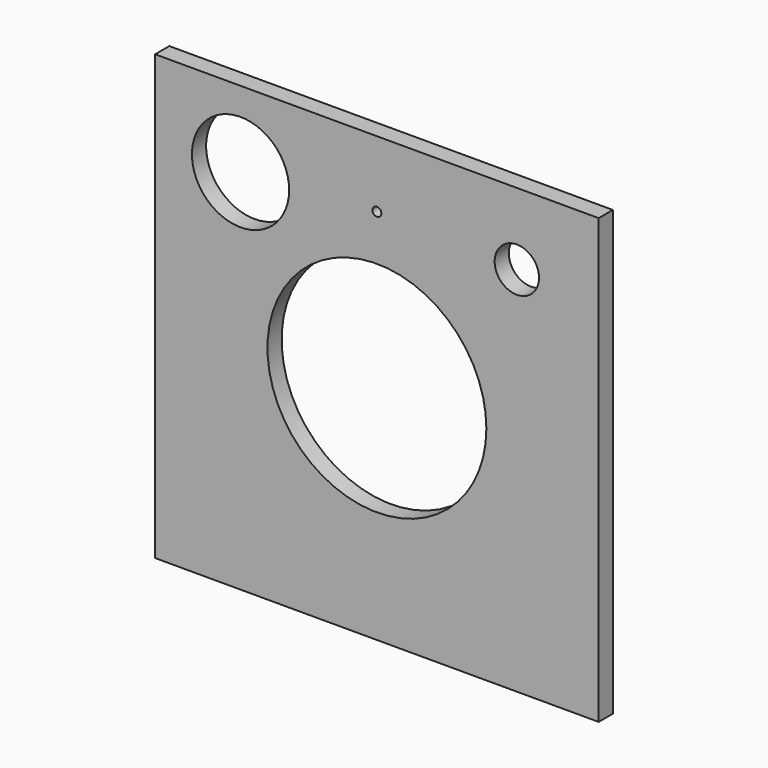
from build123d import *

# Parameters (mm, degrees)
F0_W     = 100
F0_H     = 100
F1_DEPTH = 4
F2_R     = 24.680496
F3_DEPTH = 25
F4_R     = 5
F5_DEPTH = 25
F6_R     = 10.957285
F7_DEPTH = 25
F8_R     = 1
F9_DEPTH = 4.001


with BuildPart() as f1:
    # F0 (on Front) → F1 (new body)
    with BuildSketch(Plane.XZ):
        Rectangle(F0_W, F0_H)
    extrude(amount=F1_DEPTH)

    # F2 (on face) → F3 (cut)
    with BuildSketch(Plane.XZ.offset(4)):
        Circle(F2_R)
    extrude(amount=-F3_DEPTH, mode=Mode.SUBTRACT)

    # F4 (on face) → F5 (cut)
    with BuildSketch(Plane.XZ.offset(4)):
        with Locations((31.545788, 33.773698)):
            Circle(F4_R)
    extrude(amount=-F5_DEPTH, mode=Mode.SUBTRACT)

    # F6 (on face) → F7 (cut)
    with BuildSketch(Plane.XZ.offset(4)):
        with Locations((-30.745968, 32.870423)):
            Circle(F6_R)
    extrude(amount=-F7_DEPTH, mode=Mode.SUBTRACT)

    # F8 (on face) → F9 (cut, through all)
    with BuildSketch(Plane.XZ.offset(4)):
        with Locations((0, 35)):
            Circle(F8_R)
    extrude(amount=-F9_DEPTH, mode=Mode.SUBTRACT)


solid = f1.part
